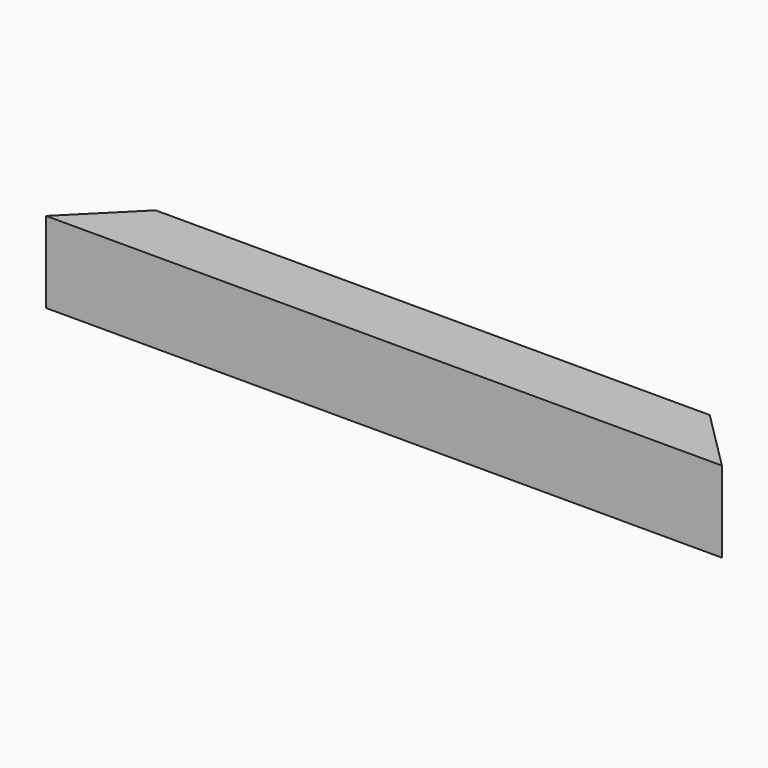
from build123d import *

# Parameters (mm, degrees)
EXTRUDE_DEPTH = 48


with BuildPart() as part:
    # Sketch → Extrude (new body)
    with BuildSketch(Plane.XY):
        Polygon((0, 0), (36, 36), (364, 36), (400, 0), align=None)
    extrude(amount=EXTRUDE_DEPTH)


solid = part.part
